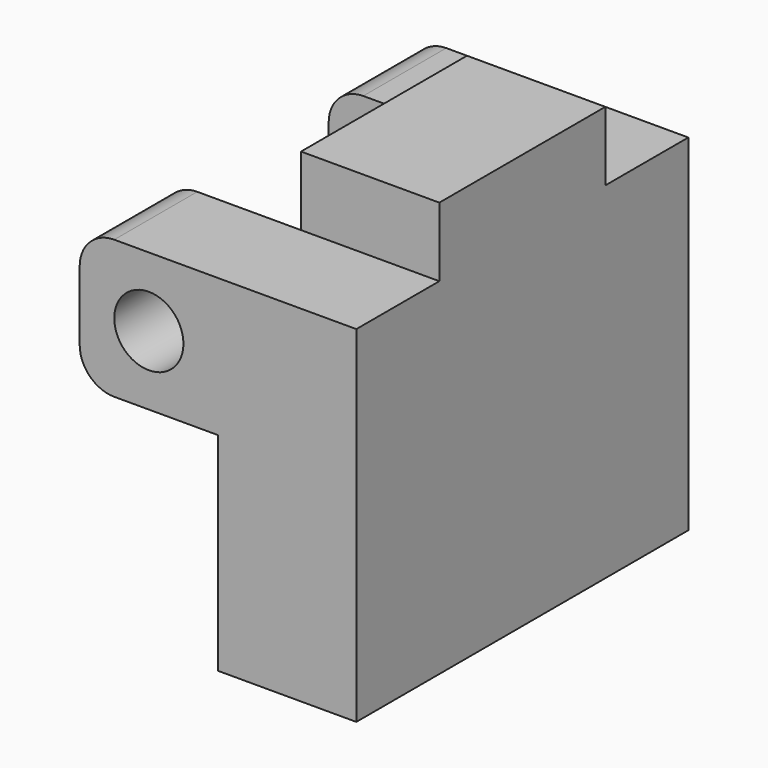
from build123d import *

# Parameters (mm, degrees)
F0_R          = 1
F1_DEPTH      = 6
F1_DEPTH_BACK = 6
F2_R          = 1
F3_W          = 6
F3_H          = 4
F4_DEPTH      = 4
F5_R          = 2
F5_R_2        = 1
F6_DEPTH      = 1
F7_W          = 4
F7_H          = 6
F8_DEPTH      = 2
F9_R          = 1
F10_DEPTH     = 3


with BuildPart() as f1:
    # F0 (on Front) → F1 (new body, two sides)
    with BuildSketch(Plane.XZ) as f1_sk:
        Polygon((0, 6), (0, 0), (4, 0), (4, 6), (4, 10), (0, 10), (-4, 10), (-4, 6), align=None)
        with Locations((-2, 8)):
            Circle(F0_R, mode=Mode.SUBTRACT)
    extrude(amount=F1_DEPTH)
    extrude(f1_sk.sketch, amount=-F1_DEPTH_BACK)

    # F2
    f2_edges = [f1.edges().sort_by_distance(p)[0] for p in [
        (-4, 0, 10),
        (-4, 0, 6),
    ]]
    fillet(f2_edges, radius=F2_R)

    # F3 (on face) → F4 (cut, through all)
    with BuildSketch(Plane(origin=(-4, 0, 0), x_dir=(0, -1, 0), z_dir=(-1, 0, 0))):
        with Locations((0, 8)):
            Rectangle(F3_W, F3_H)
    extrude(amount=-F4_DEPTH, mode=Mode.SUBTRACT)

    # F5 (on face) → F6 (cut)
    with BuildSketch(Plane(origin=(0, 0, 0), x_dir=(0, -1, 0), z_dir=(-1, 0, 0))):
        with Locations((0, 2.5)):
            Circle(F5_R)
        with Locations((0, 2.5)):
            Circle(F5_R_2, mode=Mode.SUBTRACT)
    extrude(amount=-F6_DEPTH, mode=Mode.SUBTRACT)

    # F7 (on face) → F8 (join)
    with BuildSketch(Plane.XY.offset(10)):
        with Locations((2, 0)):
            Rectangle(F7_W, F7_H)
    extrude(amount=F8_DEPTH)

    # F9 (on face) → F10 (cut)
    with BuildSketch(Plane(origin=(0, 0, 0), x_dir=(0, -1, 0), z_dir=(-1, 0, 0))):
        with Locations((0, 10.5)):
            Circle(F9_R)
    extrude(amount=-F10_DEPTH, mode=Mode.SUBTRACT)


solid = f1.part
